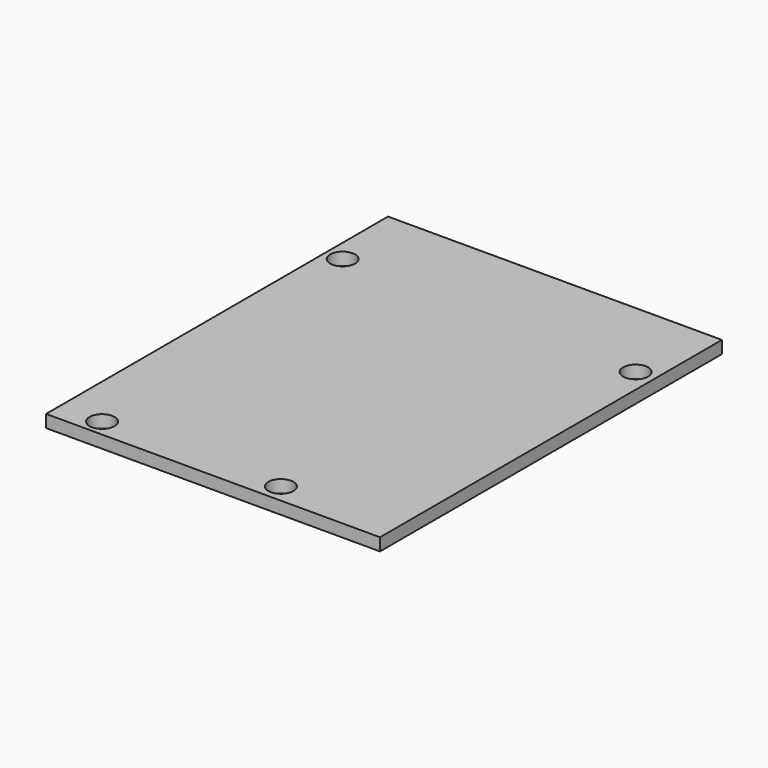
from build123d import *

# Parameters (mm, degrees)
F0_R     = 2
F1_DEPTH = 2


with BuildPart() as f1:
    # F0 (on Top) → F1 (new body)
    with BuildSketch(Plane.XY):
        Polygon((26.7, 20.675), (26.7, 34.175), (-26.7, 34.175), (-26.7, 21.675), (-26.7, -34.175), (-19.95, -34.175), (8.45, -34.175), (26.7, -34.175), align=None)
        with BuildLine():
            ThreePointArc((-17.95, -31.425), (-18.535786, -32.839214), (-19.95, -33.425))
            ThreePointArc((-19.95, -33.425), (-21.364214, -30.010786), (-17.95, -31.425))
        make_face(mode=Mode.SUBTRACT)
        with BuildLine():
            ThreePointArc((10.45, -31.175), (9.864214, -32.589214), (8.45, -33.175))
            ThreePointArc((8.45, -33.175), (7.035786, -29.760786), (10.45, -31.175))
        make_face(mode=Mode.SUBTRACT)
        with BuildLine():
            ThreePointArc((-21.95, 21.675), (-23.95, 19.675), (-25.95, 21.675))
            ThreePointArc((-25.95, 21.675), (-23.95, 23.675), (-21.95, 21.675))
        make_face(mode=Mode.SUBTRACT)
        with Locations((23.7, 20.675)):
            Circle(F0_R, mode=Mode.SUBTRACT)
    extrude(amount=F1_DEPTH)


solid = f1.part
